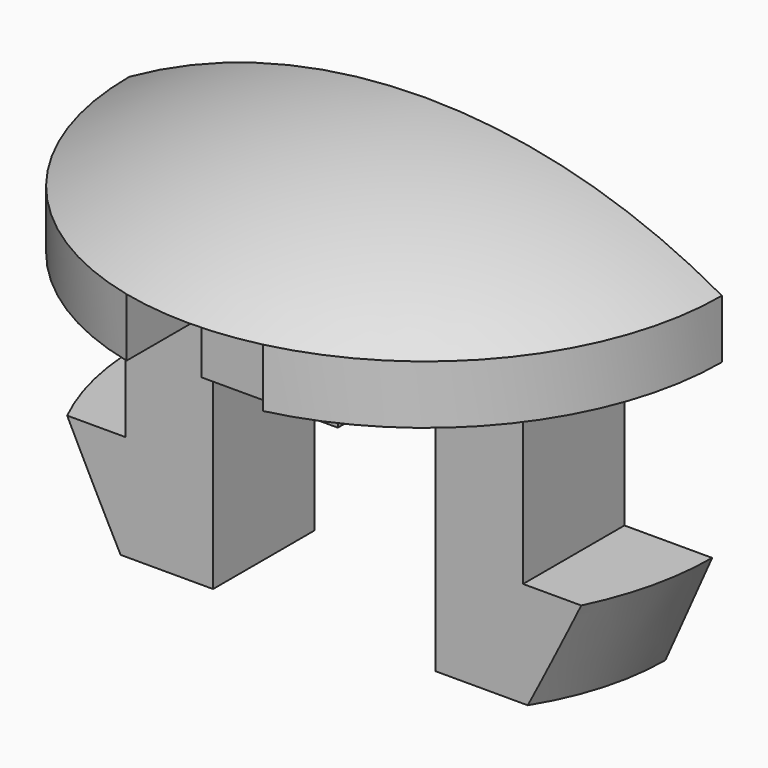
from build123d import *

# Parameters (mm, degrees)
F0_W          = 1.75
F0_H          = 1.5
F0_W_2        = 2.25
F0_H_2        = 4.5
F0_H_3        = 2.7
F2_DEPTH      = 3.25
F3_ANGLE_BACK = 35
F3_ANGLE      = 70
F4_DEPTH      = 12.5
F5_DEPTH      = 5
F6_START      = 3.25
F6_DEPTH      = 4.351
F7_DEPTH      = 7.601


with BuildPart() as f1:
    # F0 (on Front) → F1 (revolve)
    with BuildSketch(Plane.XZ):
        Polygon((-1.75, 0), (-7.6, 0), (-7.6, -1.5), (-5.1, -1.5), (-2.85, -1.5), (-1.75, -1.5), align=None)
        with BuildLine():
            ThreePointArc((0, 2), (-3.9293765409, 1.4916308553), (-7.6, 0))
            Line((-7.6, 0), (-1.75, 0))
            Line((-1.75, 0), (0, 0))
            Line((0, 0), (0, 2))
        make_face()
        with Locations((-0.875, -0.75)):
            Rectangle(F0_W, F0_H)
    revolve(axis=Axis((0, 0, 1), (0, 0, 1)))

    # F0 (on Front) → F2 (join, symmetric)
    with BuildSketch(Plane.XZ):
        with Locations((-3.975, -3.75)):
            Rectangle(F0_W_2, F0_H_2)
        with Locations((-3.975, -7.35)):
            Rectangle(F0_W_2, F0_H_3)
        with Locations((3.975, -7.35)):
            Rectangle(F0_W_2, F0_H_3)
        with Locations((3.975, -3.75)):
            Rectangle(F0_W_2, F0_H_2)
    extrude(amount=F2_DEPTH, both=True)

    # F0 (on Front) → F3 (revolve)
    with BuildSketch(Plane.XZ, mode=Mode.PRIVATE) as f3_sk:
        Polygon((-5.1, -8.7), (-5.1, -6), (-7.35, -6), (-6.15, -8.7), align=None)
        Polygon((7.35, -6), (5.1, -6), (5.1, -8.7), (6.15, -8.7), align=None)
    revolve(f3_sk.sketch.rotate(Axis((0, 0, 1), (0, 0, 1)), -F3_ANGLE_BACK), axis=Axis((0, 0, 1), (0, 0, 1)), revolution_arc=F3_ANGLE)

    # F0 (on Front) → F4 (cut, symmetric)
    with BuildSketch(Plane.XZ):
        with Locations((-0.875, -0.75)):
            Rectangle(F0_W, F0_H)
        with Locations((0.875, -0.75)):
            Rectangle(F0_W, F0_H)
    extrude(amount=F4_DEPTH, both=True, mode=Mode.SUBTRACT)

    # F0 (on Front) → F5 (join, symmetric)
    with BuildSketch(Plane.XZ):
        Polygon((0, -1.5), (-1.75, -1.5), (-1.75, -2.85), (1.75, -2.85), (1.75, -1.5), align=None)
        with Locations((-0.875, -0.75)):
            Rectangle(F0_W, F0_H)
        with Locations((0.875, -0.75)):
            Rectangle(F0_W, F0_H)
    extrude(amount=F5_DEPTH, both=True)

    # F0 (on Front) → F6 (cut)
    with BuildSketch(Plane.XZ.offset(F6_START)):
        Polygon((-5.1, -8.7), (-5.1, -6), (-7.35, -6), (-6.15, -8.7), align=None)
        with Locations((-3.975, -7.35)):
            Rectangle(F0_W_2, F0_H_3)
        with Locations((3.975, -7.35)):
            Rectangle(F0_W_2, F0_H_3)
        Polygon((7.35, -6), (5.1, -6), (5.1, -8.7), (6.15, -8.7), align=None)
    extrude(amount=F6_DEPTH, mode=Mode.SUBTRACT)

    # F0 (on Front) → F7 (cut, through all)
    with BuildSketch(Plane.XZ):
        Polygon((7.35, -6), (5.1, -6), (5.1, -8.7), (6.15, -8.7), align=None)
        Polygon((-5.1, -8.7), (-5.1, -6), (-7.35, -6), (-6.15, -8.7), align=None)
        Polygon((0, -1.5), (-1.75, -1.5), (-1.75, -2.85), (1.75, -2.85), (1.75, -1.5), align=None)
        with Locations((3.975, -3.75)):
            Rectangle(F0_W_2, F0_H_2)
        with Locations((3.975, -7.35)):
            Rectangle(F0_W_2, F0_H_3)
        with Locations((-3.975, -3.75)):
            Rectangle(F0_W_2, F0_H_2)
        with Locations((-3.975, -7.35)):
            Rectangle(F0_W_2, F0_H_3)
        with BuildLine():
            ThreePointArc((7.6, 0), (3.9293765409, 1.4916308553), (0, 2))
            Line((0, 2), (0, 0))
            Line((0, 0), (1.75, 0))
            Line((1.75, 0), (7.6, 0))
        make_face()
        with BuildLine():
            ThreePointArc((0, 2), (-3.9293765409, 1.4916308553), (-7.6, 0))
            Line((-7.6, 0), (-1.75, 0))
            Line((-1.75, 0), (0, 0))
            Line((0, 0), (0, 2))
        make_face()
        Polygon((-1.75, 0), (-7.6, 0), (-7.6, -1.5), (-5.1, -1.5), (-2.85, -1.5), (-1.75, -1.5), align=None)
        Polygon((7.6, -1.5), (7.6, 0), (1.75, 0), (1.75, -1.5), (2.85, -1.5), (5.1, -1.5), align=None)
        with Locations((-0.875, -0.75)):
            Rectangle(F0_W, F0_H)
        with Locations((0.875, -0.75)):
            Rectangle(F0_W, F0_H)
    extrude(amount=-F7_DEPTH, mode=Mode.SUBTRACT)


solid = f1.part
